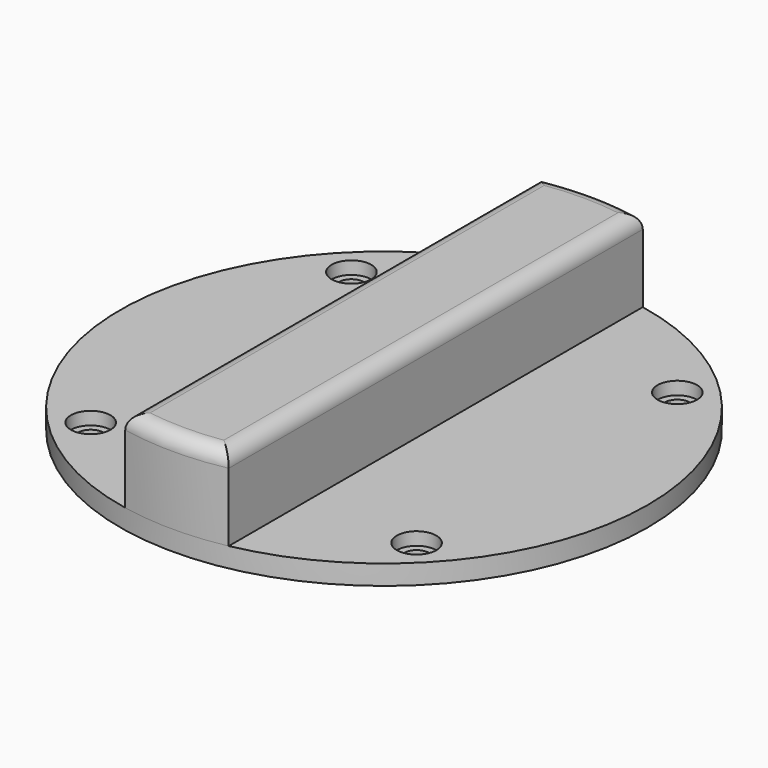
from build123d import *

# Parameters (mm, degrees)
F0_R      = 26.67
F1_DEPTH  = 2
F5_DEPTH  = 8.42
F6_R      = 1.5
F8_DEPTH  = 8
F9_R      = 1.27
F11_DEPTH = 2
F10_R     = 2
F12_DEPTH = 1.3


with BuildPart() as f1:
    # F0 (on Top) → F1 (new body)
    with BuildSketch(Plane.XY):
        Circle(F0_R)
        Circle(F0_R)
    extrude(amount=F1_DEPTH)

    # F4 (on face) → F5 (join)
    with BuildSketch(Plane.XY.offset(2)):
        with BuildLine():
            ThreePointArc((5.23, 26.15217), (0, 26.67), (-5.23, 26.15217))
            Line((-5.23, 26.15217), (-5.23, -26.15217))
            ThreePointArc((-5.23, -26.15217), (0, -26.67), (5.23, -26.15217))
            Line((5.23, -26.15217), (5.23, 26.15217))
        make_face()
    extrude(amount=F5_DEPTH)

    # F6
    f6_edges = [f1.edges().sort_by_distance(p)[0] for p in [
        (5.23, 0, 10.42),
        (0, 26.67, 10.42),
        (-5.23, 0, 10.42),
        (0, -26.67, 10.42),
    ]]
    fillet(f6_edges, radius=F6_R)

    # F7 (on face) → F8 (cut)
    with BuildSketch(Plane(origin=(0, 0, 0), x_dir=(1, 0, 0), z_dir=(0, 0, -1))):
        with BuildLine():
            ThreePointArc((3, 23.479116), (0, 23.67), (-3, 23.479116))
            Line((-3, 23.479116), (-3, -23.479116))
            ThreePointArc((-3, -23.479116), (0, -23.67), (3, -23.479116))
            Line((3, -23.479116), (3, 23.479116))
        make_face()
    extrude(amount=-F8_DEPTH, mode=Mode.SUBTRACT)

    # F9 (on face) → F11 (cut)
    with BuildSketch(Plane.XY.offset(2)):
        with Locations((-16.468517, 16.468517)):
            Circle(F9_R)
        with Locations((-16.468517, -16.468517)):
            Circle(F9_R)
        with Locations((16.468517, -16.468517)):
            Circle(F9_R)
        with Locations((16.468517, 16.468517)):
            Circle(F9_R)
    extrude(amount=-F11_DEPTH, mode=Mode.SUBTRACT)

    # F10 (on face) → F12 (cut)
    with BuildSketch(Plane.XY.offset(2)):
        with Locations((-16.468517, 16.468517)):
            Circle(F10_R)
        with Locations((-16.468517, -16.468517)):
            Circle(F10_R)
        with Locations((16.468517, -16.468517)):
            Circle(F10_R)
        with Locations((16.468517, 16.468517)):
            Circle(F10_R)
    extrude(amount=-F12_DEPTH, mode=Mode.SUBTRACT)


solid = f1.part
